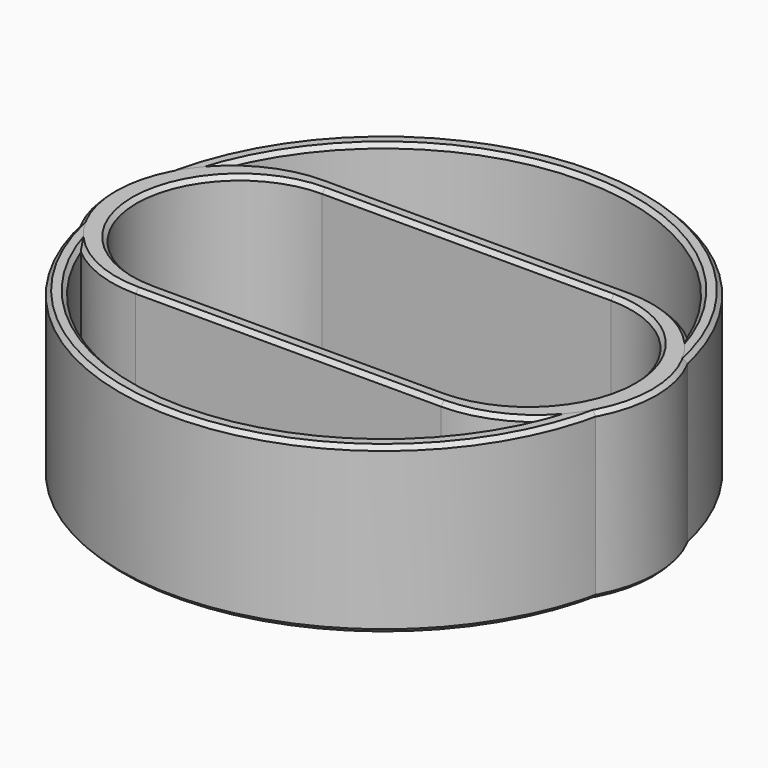
from build123d import *

# Parameters (mm, degrees)
SKETCH_R        = 32
SKETCH_R_2      = 30
PAD_DEPTH       = 20
CHAMFER_SIZE    = 0.5
PAD001_DEPTH    = 20
CHAMFER001_SIZE = 0.5


with BuildPart() as basic_ring:
    # Sketch → Pad (new body)
    with BuildSketch(Plane.XY):
        Circle(SKETCH_R)
        Circle(SKETCH_R_2, mode=Mode.SUBTRACT)
    extrude(amount=PAD_DEPTH)

    # Chamfer
    chamfer_edges = [basic_ring.edges().sort_by_distance(p)[0] for p in [
        (-32, 0, 20),
        (-30, 0, 20),
        (-32, 0, 0),
        (-30, 0, 0),
    ]]
    chamfer(chamfer_edges, length=CHAMFER_SIZE)


with BuildPart() as oblong_ring:
    # Sketch001 → Pad001 (new body)
    with BuildSketch(Plane.XY):
        with BuildLine():
            ThreePointArc((-18.5, 14.5), (-33, 0), (-18.5, -14.5))
            Line((-18.5, -14.5), (18.5, -14.5))
            ThreePointArc((18.5, -14.5), (33, 0), (18.5, 14.5))
            Line((18.5, 14.5), (-18.5, 14.5))
        make_face()
        with BuildLine():
            ThreePointArc((-17.5, 12.5), (-30, 0), (-17.5, -12.5))
            Line((-17.5, -12.5), (17.5, -12.5))
            ThreePointArc((17.5, -12.5), (30, 0), (17.5, 12.5))
            Line((17.5, 12.5), (-17.5, 12.5))
        make_face(mode=Mode.SUBTRACT)
    extrude(amount=PAD001_DEPTH)

    # Chamfer001
    chamfer001_edges = [oblong_ring.edges().sort_by_distance(p)[0] for p in [
        (-33, 0, 0),
        (0, -14.5, 0),
        (33, 0, 0),
        (0, 14.5, 0),
        (-30, 0, 0),
        (0, -12.5, 0),
        (30, 0, 0),
        (0, 12.5, 0),
        (-33, 0, 20),
        (0, -14.5, 20),
        (33, 0, 20),
        (0, 14.5, 20),
        (-30, 0, 20),
        (0, -12.5, 20),
        (30, 0, 20),
        (0, 12.5, 20),
    ]]
    chamfer(chamfer001_edges, length=CHAMFER001_SIZE)


solid = Compound([basic_ring.part, oblong_ring.part])
